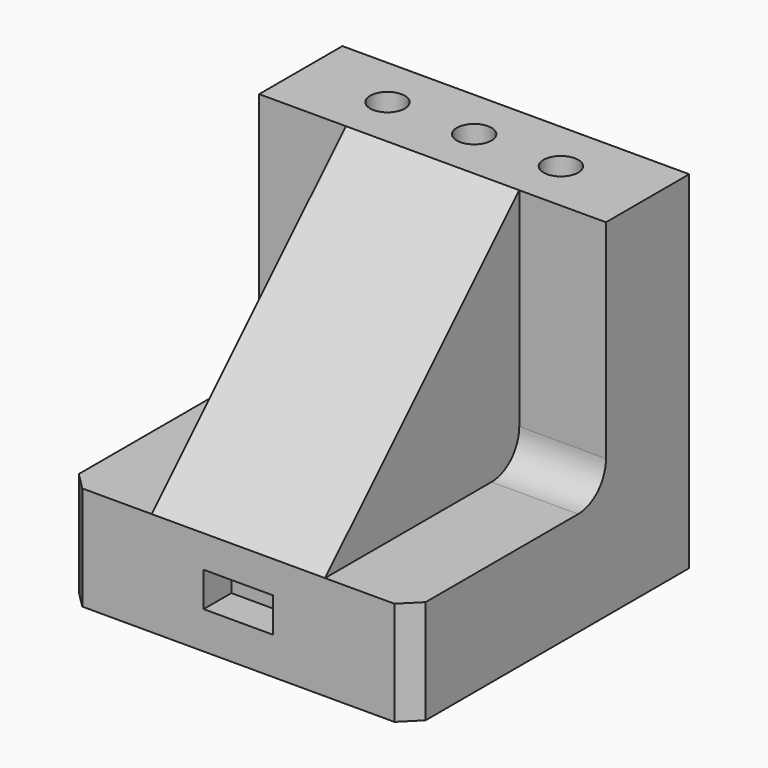
from build123d import *

# Parameters (mm, degrees)
F1_DEPTH = 100
F3_DEPTH = 25
F5_DEPTH = 25
F6_R     = 5
F7_DEPTH = 100
F8_W     = 20
F8_H     = 10
F9_DEPTH = 10
F10_SIZE = 5
F11_SIZE = 5


with BuildPart() as f1:
    # F0 (on Right) → F1 (new body)
    with BuildSketch(Plane.YZ):
        Polygon((-100, 0), (0, 0), (0, 100), (-30, 100), (-100, 30), align=None)
    extrude(amount=F1_DEPTH)

    # F2 (on face) → F3 (cut)
    with BuildSketch(Plane(origin=(0, 0, 0), x_dir=(0, -1, 0), z_dir=(-1, 0, 0))):
        with BuildLine():
            Line((100, 30), (30, 100))
            Line((30, 100), (30, 40))
            ThreePointArc((30, 40), (32.928932, 32.928932), (40, 30))
            Line((40, 30), (100, 30))
        make_face()
    extrude(amount=-F3_DEPTH, mode=Mode.SUBTRACT)

    # F4 (on face) → F5 (cut)
    with BuildSketch(Plane.YZ.offset(100)):
        with BuildLine():
            Line((-30, 40), (-30, 100))
            Line((-30, 100), (-100, 30))
            Line((-100, 30), (-40, 30))
            ThreePointArc((-40, 30), (-32.928932, 32.928932), (-30, 40))
        make_face()
    extrude(amount=-F5_DEPTH, mode=Mode.SUBTRACT)

    # F6 (on face) → F7 (cut)
    with BuildSketch(Plane.XY.offset(100)):
        with Locations((25, -15)):
            Circle(F6_R)
        with Locations((50, -15)):
            Circle(F6_R)
        with Locations((75, -15)):
            Circle(F6_R)
    extrude(amount=-F7_DEPTH, mode=Mode.SUBTRACT)

    # F8 (on face) → F9 (cut)
    with BuildSketch(Plane.XZ.offset(100)):
        with Locations((50, 15.746453)):
            Rectangle(F8_W, F8_H)
        with Locations((50, 15.746453)):
            Rectangle(F8_W, F8_H)
    extrude(amount=-F9_DEPTH, mode=Mode.SUBTRACT)

    # F10
    f10_edges = [f1.edges().sort_by_distance(p)[0] for p in [
        (0, -100, 15),
    ]]
    chamfer(f10_edges, length=F10_SIZE)

    # F11
    f11_edges = [f1.edges().sort_by_distance(p)[0] for p in [
        (100, -100, 15),
    ]]
    chamfer(f11_edges, length=F11_SIZE)


solid = f1.part
